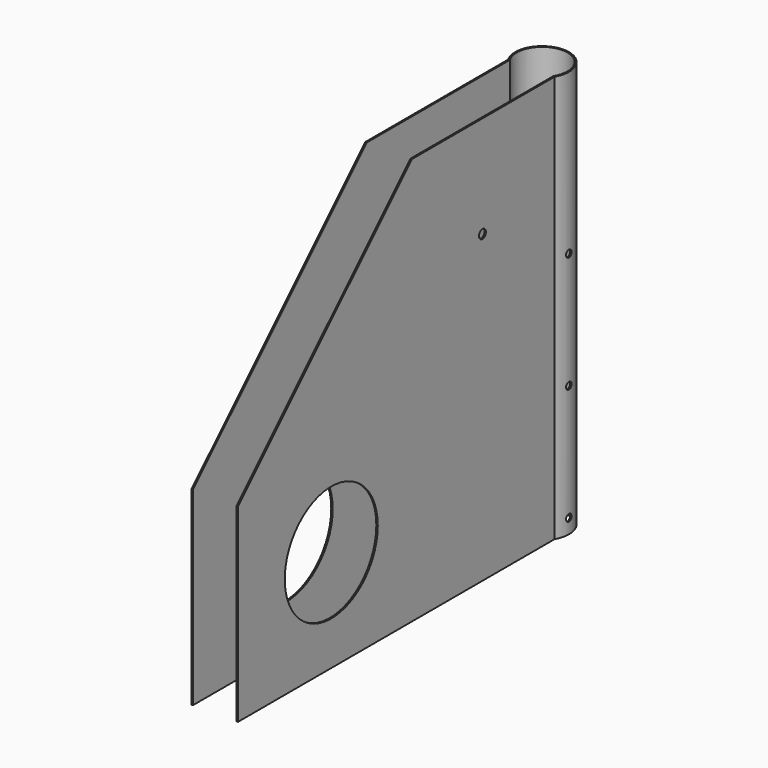
from build123d import *

# Parameters (mm, degrees)
F3_DEPTH  = 280
F4_DEPTH  = 280
F5_R      = 2.4
F6_DEPTH  = 18.5
F8_DEPTH  = 25
F10_R     = 2.4
F11_DEPTH = 25
F12_R     = 40
F12_R_2   = 3
F13_DEPTH = 20


with BuildPart() as f3:
    # F2 (on Top) → F3 (new body)
    with BuildSketch(Plane.XY):
        with BuildLine():
            ThreePointArc((16, -9.2870878105), (0, 18.5), (-16, -9.2870878105))
            Line((-16, -9.2870878105), (-16, -18.5))
            Line((-16, -18.5), (-16, -281.5))
            Line((-16, -281.5), (16, -281.5))
            Line((16, -281.5), (16, -18.5))
            Line((16, -18.5), (16, -9.2870878105))
        make_face()
    extrude(amount=F3_DEPTH)

    # F0 (on Top) → F4 (cut)
    with BuildSketch(Plane.XY):
        with BuildLine():
            Line((15, -17.5), (15, -9.0138781887))
            ThreePointArc((15, -9.0138781887), (0, 17.5), (-15, -9.0138781887))
            Line((-15, -9.0138781887), (-15, -17.5))
            Line((-15, -17.5), (-15, -282.5))
            Line((-15, -282.5), (15, -282.5))
            Line((15, -282.5), (15, -17.5))
        make_face()
    extrude(amount=F4_DEPTH, mode=Mode.SUBTRACT)

    # F5 (on Right) → F6 (cut, symmetric)
    with BuildSketch(Plane.YZ):
        with Locations((0, 170)):
            Circle(F5_R)
        with Locations((0, 90)):
            Circle(F5_R)
        with Locations((0, 10)):
            Circle(F5_R)
    extrude(amount=F6_DEPTH, both=True, mode=Mode.SUBTRACT)

    # F7 (on face) → F8 (cut)
    with BuildSketch(Plane(origin=(0, 0, 0), x_dir=(0.7071067812, -0.7071067812, 0), z_dir=(-0.7071067812, -0.7071067812, 0))):
        with BuildLine():
            ThreePointArc((2.4, 10), (0, 12.4), (-2.4, 10))
            Line((-2.4, 10), (2.4, 10))
        make_face()
        with BuildLine():
            Line((2.4, 10), (-2.4, 10))
            ThreePointArc((-2.4, 10), (0, 7.6), (2.4, 10))
        make_face()
        with BuildLine():
            ThreePointArc((-2.4, 90), (0, 87.6), (2.4, 90))
            Line((2.4, 90), (-2.4, 90))
        make_face()
        with BuildLine():
            Line((-2.4, 90), (2.4, 90))
            ThreePointArc((2.4, 90), (0, 92.4), (-2.4, 90))
        make_face()
        with BuildLine():
            ThreePointArc((-2.4, 170), (0, 167.6), (2.4, 170))
            Line((2.4, 170), (-2.4, 170))
        make_face()
        with BuildLine():
            Line((-2.4, 170), (2.4, 170))
            ThreePointArc((2.4, 170), (0, 172.4), (-2.4, 170))
        make_face()
    extrude(amount=-F8_DEPTH, mode=Mode.SUBTRACT)

    # F10 (on face) → F11 (cut)
    with BuildSketch(Plane(origin=(0, 0, 0), x_dir=(0.7071067812, 0.7071067812, 0), z_dir=(0.7071067812, -0.7071067812, 0))):
        with Locations((0, 170)):
            Circle(F10_R)
        with Locations((0, 90)):
            Circle(F10_R)
        with Locations((0, 10)):
            Circle(F10_R)
    extrude(amount=-F11_DEPTH, mode=Mode.SUBTRACT)

    # F12 (on Right) → F13 (cut, symmetric)
    with BuildSketch(Plane.YZ):
        with Locations((-201.2879049778, 70)):
            Circle(F12_R)
        Polygon((-131.954, 280), (-281.954, 280), (-281.954, 130), align=None)
        with Locations((-71.2879049778, 210)):
            Circle(F12_R_2)
    extrude(amount=F13_DEPTH, both=True, mode=Mode.SUBTRACT)


solid = f3.part
